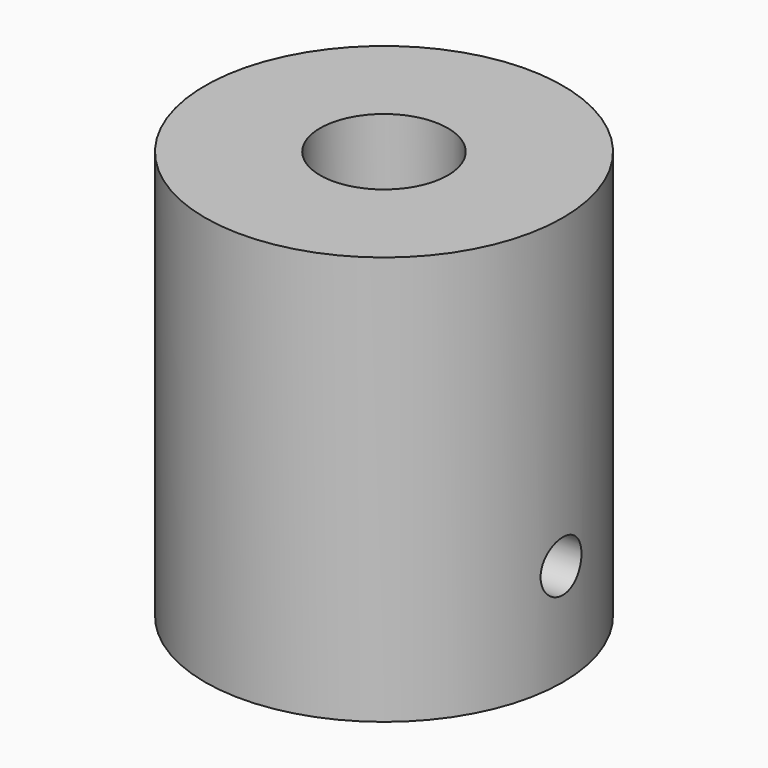
from build123d import *

# Parameters (mm, degrees)
CYLINDER001_R           = 3.175
CYLINDER001_DEPTH       = 25.4
CYLINDER001_PITCH_ANGLE = 90
CYLINDER_R              = 22.225
CYLINDER_DEPTH          = 50.8
SKETCH_R                = 7.9375
POCKET_DEPTH            = 50.801
SKETCH001_R             = 12.7
POCKET001_DEPTH         = 25.4
SKETCH002_W             = 6.35
SKETCH002_H             = 6.35
PAD_DEPTH               = 25.4


with BuildPart() as cylinder001:
    # Cylinder001 → Cylinder001 (new body)
    with BuildSketch(Plane.XY):
        Circle(CYLINDER001_R)
    extrude(amount=CYLINDER001_DEPTH)


with BuildPart() as cylinder001_1:
    # Cylinder001 pitch: moved
    add(cylinder001.part.rotate(Axis((0, 0, 0), (0, 1, 0)), CYLINDER001_PITCH_ANGLE))


with BuildPart() as cylinder001_2:
    # Cylinder001 placement: moved
    add(cylinder001_1.part.moved(Location((1.93153, 0, 12.7))))


with BuildPart() as f_0_25in_key:
    # Cylinder → Cylinder (new body)
    with BuildSketch(Plane.XY):
        Circle(CYLINDER_R)
    extrude(amount=CYLINDER_DEPTH)

    # Sketch → Pocket (cut, through all)
    with BuildSketch(Plane.XY.offset(50.8)):
        Circle(SKETCH_R)
    extrude(amount=-POCKET_DEPTH, mode=Mode.SUBTRACT)

    # Cut: cut Cylinder001
    add(cylinder001_2.part, mode=Mode.SUBTRACT)

    # Sketch001 → Pocket001 (cut)
    with BuildSketch(Plane(origin=(0, 0, 0), x_dir=(1, 0, 0), z_dir=(0, 0, -1))):
        Circle(SKETCH001_R)
    extrude(amount=-POCKET001_DEPTH, mode=Mode.SUBTRACT)

    # Sketch002 → Pad (new body)
    with BuildSketch(Plane(origin=(0, 0, 0), x_dir=(1, 0, 0), z_dir=(0, 0, -1))):
        with Locations((12.7, 0)):
            Rectangle(SKETCH002_W, SKETCH002_H)
    extrude(amount=-PAD_DEPTH)


solid = f_0_25in_key.part
